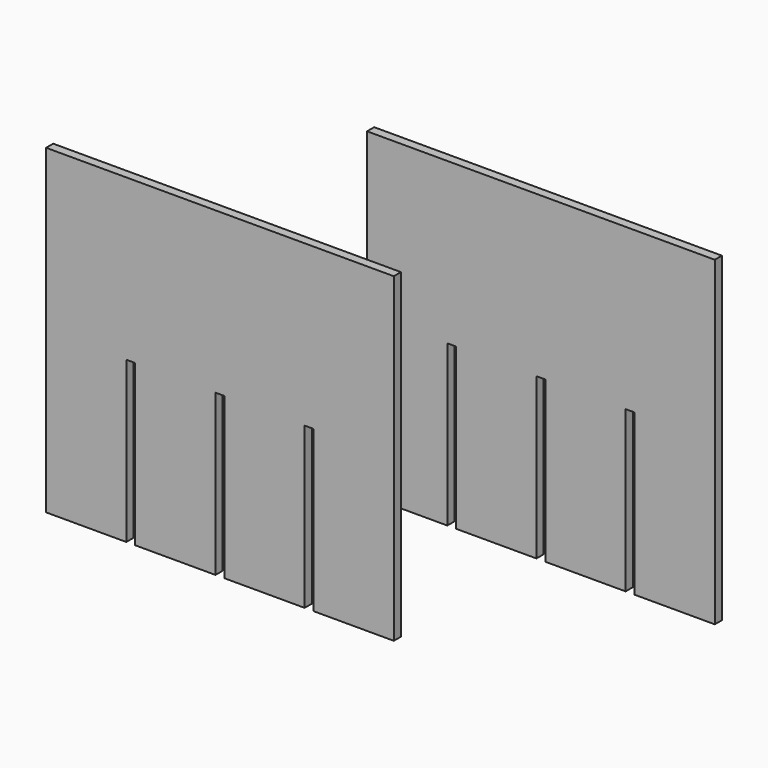
from build123d import *

# Parameters (mm, degrees)
F1_DEPTH = 6.35


with BuildPart() as f1:
    # F0 (on Front) → F1 (new body)
    with BuildSketch(Plane.XZ):
        Polygon((66.675, -114.3), (123.825, -114.3), (123.825, 114.3), (-123.825, 114.3), (-123.825, -114.3), (-66.675, -114.3), (-66.675, 0), (-60.325, 0), (-60.325, -114.3), (-3.175, -114.3), (-3.175, 0), (3.175, 0), (3.175, -114.3), (60.325, -114.3), (60.325, 0), (66.675, 0), align=None)
    extrude(amount=F1_DEPTH)


with BuildPart() as f2_1:
    # F2: copy of F1
    add(f1.part.moved(Location((127, 127, 0))))


solid = Compound([f1.part, f2_1.part])
